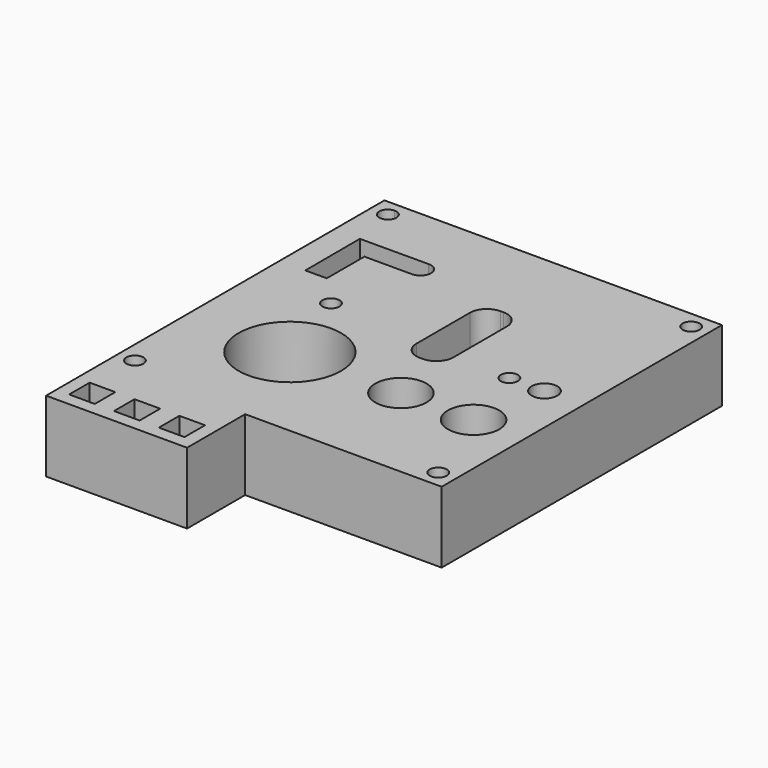
from build123d import *

# Parameters (mm, degrees)
F0_W     = 9
F0_H     = 9
F0_R     = 3
F0_R_2   = 18
F0_R_3   = 9
F0_R_4   = 4.5
F1_DEPTH = 25


with BuildPart() as f1:
    # F0 (on Top) → F1 (new body)
    with BuildSketch(Plane.XY):
        Polygon((-52.684808, 173.482456), (-58.684808, 173.482456), (-58.684808, 24.982456), (-9.184808, 24.982456), (-9.184808, 50.482456), (59.815192, 50.482456), (59.815192, 86.982456), (59.815192, 173.482456), (7.315192, 173.482456), align=None)
        with Locations((-49.684808, 33.980483)):
            Rectangle(F0_W, F0_H, mode=Mode.SUBTRACT)
        with Locations((-33.934808, 33.980483)):
            Rectangle(F0_W, F0_H, mode=Mode.SUBTRACT)
        with Locations((-52.684808, 56.482456)):
            Circle(F0_R, mode=Mode.SUBTRACT)
        with Locations((-18.184808, 33.980483)):
            Rectangle(F0_W, F0_H, mode=Mode.SUBTRACT)
        with Locations((-22.684808, 86.982456)):
            Circle(F0_R_2, mode=Mode.SUBTRACT)
        with Locations((53.815192, 56.482456)):
            Circle(F0_R, mode=Mode.SUBTRACT)
        with Locations((16.315192, 86.982456)):
            Circle(F0_R_3, mode=Mode.SUBTRACT)
        with Locations((41.815192, 86.982456)):
            Circle(F0_R_3, mode=Mode.SUBTRACT)
        with Locations((-31.923011, 116.548747)):
            Circle(F0_R, mode=Mode.SUBTRACT)
        with BuildLine():
            Line((-49.618921, 127.439418), (-49.684808, 151.439328))
            Line((-49.684808, 151.439328), (-25.684899, 151.505215))
            Line((-25.684899, 151.505215), (-25.434899, 151.505215))
            ThreePointArc((-25.434899, 151.505215), (-22.783248, 150.406866), (-21.684899, 147.755215))
            Line((-21.684899, 147.755215), (-21.684899, 147.710127))
            ThreePointArc((-21.684899, 147.710127), (-22.783248, 145.058476), (-25.434899, 143.960127))
            Line((-25.434899, 143.960127), (-25.684899, 143.960127))
            Line((-25.684899, 143.960127), (-42.098359, 143.960127))
            Line((-42.098359, 143.960127), (-42.118949, 127.460008))
            Line((-42.118949, 127.460008), (-49.618921, 127.439418))
        make_face(mode=Mode.SUBTRACT)
        with BuildLine():
            ThreePointArc((-49.684808, 167.482456), (-54.806129, 165.361135), (-52.684808, 170.482456))
            ThreePointArc((-52.684808, 170.482456), (-50.563488, 169.603776), (-49.684808, 167.482456))
        make_face(mode=Mode.SUBTRACT)
        with BuildLine():
            Line((1.315192, 114.520175), (1.315192, 133.982456))
            Line((1.315192, 133.982456), (1.315192, 135.982456))
            ThreePointArc((1.315192, 135.982456), (3.072551, 140.225096), (7.315192, 141.982456))
            Line((7.315192, 141.982456), (8.315192, 141.982456))
            ThreePointArc((8.315192, 141.982456), (12.557832, 140.225096), (14.315192, 135.982456))
            Line((14.315192, 135.982456), (14.315192, 132.982456))
            Line((14.315192, 132.982456), (14.315192, 112.520175))
            ThreePointArc((14.315192, 112.520175), (12.557832, 108.277534), (8.315192, 106.520175))
            Line((8.315192, 106.520175), (7.315192, 106.520175))
            ThreePointArc((7.315192, 106.520175), (3.072551, 108.277534), (1.315192, 112.520175))
            Line((1.315192, 112.520175), (1.315192, 114.520175))
        make_face(mode=Mode.SUBTRACT)
        with Locations((33.959863, 112.520175)):
            Circle(F0_R, mode=Mode.SUBTRACT)
        with Locations((46.291271, 112.520175)):
            Circle(F0_R_4, mode=Mode.SUBTRACT)
        with Locations((53.815192, 167.482456)):
            Circle(F0_R, mode=Mode.SUBTRACT)
    extrude(amount=F1_DEPTH)


solid = f1.part
